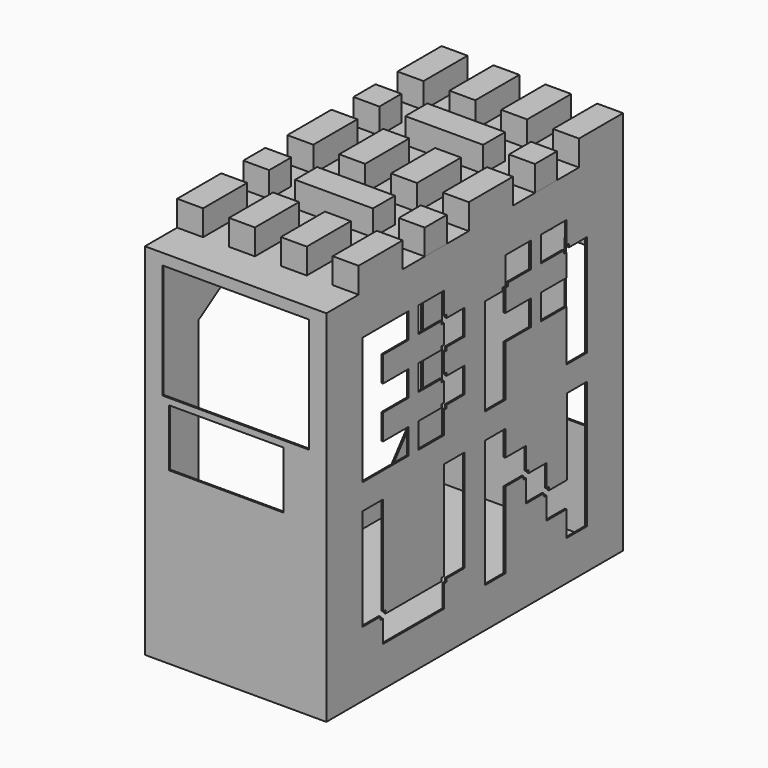
from build123d import *

# Parameters (mm, degrees)
F0_W      = 177.8
F0_H      = 355.6
F1_DEPTH  = 1.5875
F2_W      = 114.3
F2_H      = 57.15
F3_DEPTH  = 1.5885
F4_W      = 368.3
F4_H      = 355.6
F5_DEPTH  = 1.5875
F6_W      = 368.3
F6_H      = 355.6
F7_DEPTH  = 1.5875
F8_W      = 180.975
F8_H      = 368.3
F9_DEPTH  = 1.5875
F10_W     = 180.975
F10_H     = 368.3
F11_DEPTH = 1.5875
F12_W     = 180.975
F12_H     = 358.775
F13_DEPTH = 1.5875
F15_DEPTH = 25.4
F16_W     = 44.45
F16_H     = 158.75
F17_DEPTH = 25.4
F19_DEPTH = 25.4
F20_W     = 25.853571
F20_H     = 27.475961
F20_H_2   = 27.475962
F20_W_2   = 77.560714
F21_DEPTH = 25.4
F23_DEPTH = 25.4


with BuildPart() as f1:
    # F0 (on Front) → F1 (new body)
    with BuildSketch(Plane.XZ):
        Rectangle(F0_W, F0_H)
    extrude(amount=F1_DEPTH)

    # F2 (on face) → F3 (cut, through all)
    with BuildSketch(Plane.XZ.offset(1.5875)):
        with Locations((-9.525, 19.05)):
            Rectangle(F2_W, F2_H)
        Polygon((73.025, 168.275), (-73.025, 168.275), (-73.025, 53.975), (-66.675, 53.975), (73.025, 53.975), align=None)
    extrude(amount=-F3_DEPTH, mode=Mode.SUBTRACT)

    # F4 (on face) → F5 (join)
    with BuildSketch(Plane(origin=(-88.9, 0, 0), x_dir=(0, -1, 0), z_dir=(-1, 0, 0))):
        with Locations((-182.5625, 0)):
            Rectangle(F4_W, F4_H)
    extrude(amount=F5_DEPTH)

    # F6 (on face) → F7 (join)
    with BuildSketch(Plane.YZ.offset(88.9)):
        with Locations((182.5625, 0)):
            Rectangle(F6_W, F6_H)
    extrude(amount=F7_DEPTH)

    # F8 (on face) → F9 (join)
    with BuildSketch(Plane.XY.offset(177.8)):
        with Locations((0, 182.5625)):
            Rectangle(F8_W, F8_H)
    extrude(amount=F9_DEPTH)

    # F10 (on face) → F11 (join)
    with BuildSketch(Plane(origin=(0, 0, -177.8), x_dir=(1, 0, 0), z_dir=(0, 0, -1))):
        with Locations((0, -182.5625)):
            Rectangle(F10_W, F10_H)
    extrude(amount=F11_DEPTH)

    # F12 (on face) → F13 (join)
    with BuildSketch(Plane(origin=(0, 366.7125, 0), x_dir=(-1, 0, 0), z_dir=(0, 1, 0))):
        Rectangle(F12_W, F12_H)
    extrude(amount=F13_DEPTH)

    # F14 (on face) → F15 (cut)
    with BuildSketch(Plane(origin=(0, 368.3, 0), x_dir=(-1, 0, 0), z_dir=(0, 1, 0))):
        Polygon((-30.1625, 157.1625), (-77.7875, 157.1625), (-77.7875, 93.6625), (-20.6375, 93.6625), (-20.6375, 80.9625), (30.1625, 80.9625), (65.0875, 96.8375), (80.9625, 96.8375), (80.9625, 141.2875), (65.0875, 141.2875), (65.0875, 163.5125), (-30.1625, 163.5125), align=None)
    extrude(amount=-F15_DEPTH, mode=Mode.SUBTRACT)

    # F16 (on face) → F17 (cut)
    with BuildSketch(Plane(origin=(0, 368.3, 0), x_dir=(-1, 0, 0), z_dir=(0, 1, 0))):
        with Locations((-55.5625, -1.5875)):
            Rectangle(F16_W, F16_H)
    extrude(amount=-F17_DEPTH, mode=Mode.SUBTRACT)

    # F18 (on face) → F19 (cut)
    with BuildSketch(Plane.YZ.offset(90.4875)):
        Polygon((69.05625, 139.7), (43.65625, 139.7), (43.65625, 114.3), (43.65625, 88.9), (43.65625, 63.5), (43.65625, 38.1), (43.65625, 12.7), (69.05625, 12.7), (94.45625, 12.7), (100.80625, 12.7), (100.80625, 38.1), (94.45625, 38.1), (69.05625, 38.1), (69.05625, 63.5), (94.45625, 63.5), (100.80625, 63.5), (100.80625, 88.9), (94.45625, 88.9), (69.05625, 88.9), (69.05625, 114.3), (94.45625, 114.3), (100.80625, 114.3), (100.80625, 139.7), (94.45625, 139.7), align=None)
        Polygon((297.65625, -139.7), (323.05625, -139.7), (323.05625, -12.7), (298.119395, -12.7), (298.119395, -38.1), (298.119395, -63.5), (298.119395, -88.9), (275.894395, -88.9), (275.894395, -85.725), (272.719395, -85.725), (272.719395, -63.5), (250.494395, -63.5), (250.494395, -60.325), (247.319395, -60.325), (247.319395, -38.1), (221.45625, -38.1), (221.45625, -12.7), (196.05625, -12.7), (196.05625, -139.7), (221.45625, -139.7), (221.45625, -114.3), (221.45625, -88.9), (221.45625, -63.5), (244.144395, -63.5), (244.144395, -66.675), (247.319395, -66.675), (247.319395, -88.9), (269.544395, -88.9), (269.544395, -92.075), (272.719395, -92.075), (272.719395, -114.334573), (297.65625, -114.334573), align=None)
        Polygon((145.25625, 139.7), (119.85625, 139.7), (113.50625, 139.7), (113.50625, 114.3), (119.85625, 114.3), (142.08125, 114.3), (142.08125, 111.125), (145.25625, 111.125), (145.25625, 92.075), (142.08125, 92.075), (142.08125, 88.9), (119.85625, 88.9), (113.50625, 88.9), (113.50625, 63.5), (119.85625, 63.5), (142.08125, 63.5), (142.08125, 60.325), (145.25625, 60.325), (145.25625, 41.275), (142.08125, 41.275), (142.08125, 38.1), (119.85625, 38.1), (113.50625, 38.1), (113.50625, 12.7), (119.85625, 12.7), (145.25625, 12.7), (145.25625, 34.925), (148.43125, 34.925), (148.43125, 38.1), (170.65625, 38.1), (170.65625, 63.5), (148.43125, 63.5), (148.43125, 66.675), (145.25625, 66.675), (145.25625, 85.725), (148.43125, 85.725), (148.43125, 88.9), (170.65625, 88.9), (170.65625, 114.3), (148.43125, 114.3), (148.43125, 117.475), (145.25625, 117.475), align=None)
        Polygon((246.85625, 139.7), (221.45625, 139.7), (221.45625, 112.712842), (218.28125, 112.712842), (218.28125, 109.537842), (196.05625, 109.537842), (196.05625, 12.7), (221.45625, 12.7), (221.45625, 38.1), (221.45625, 63.5), (246.85625, 63.5), (253.20625, 63.5), (253.20625, 88.9), (246.85625, 88.9), (221.45625, 88.9), (221.45625, 111.125), (224.63125, 111.125), (224.63125, 114.3), (246.85625, 114.3), (253.20625, 114.3), (253.20625, 139.7), align=None)
        Polygon((297.65625, 139.7), (272.25625, 139.7), (265.90625, 139.7), (265.90625, 114.3), (272.25625, 114.3), (294.48125, 114.3), (294.48125, 111.125), (297.65625, 111.125), (297.65625, 88.9), (272.25625, 88.9), (265.90625, 88.9), (265.90625, 63.5), (272.25625, 63.5), (297.65625, 63.5), (297.65625, 38.1), (297.65625, 12.7), (323.05625, 12.7), (323.05625, 38.1), (323.05625, 63.5), (323.05625, 88.9), (323.05625, 114.3), (300.83125, 114.3), (300.83125, 117.475), (297.65625, 117.475), align=None)
        Polygon((69.05625, -12.7), (43.65625, -12.7), (43.65625, -38.1), (43.65625, -63.5), (43.65625, -88.9), (43.65625, -114.3), (65.88125, -114.3), (65.88125, -117.475), (69.05625, -117.475), (69.05625, -139.7), (145.25625, -139.7), (145.25625, -117.475), (148.43125, -117.475), (148.43125, -114.3), (170.65625, -114.3), (170.65625, -12.7), (145.25625, -12.7), (145.25625, -111.125), (142.08125, -111.125), (142.08125, -114.3), (72.23125, -114.3), (72.23125, -111.125), (69.05625, -111.125), align=None)
    extrude(amount=-F19_DEPTH, mode=Mode.SUBTRACT)

    # F20 (on face) → F21 (join)
    with BuildSketch(Plane.XY.offset(179.3875)):
        Polygon((-64.633929, 368.3), (-90.4875, 368.3), (-90.4875, 340.824038), (-90.4875, 313.348077), (-64.633929, 313.348077), (-64.633929, 340.824038), align=None)
        Polygon((-12.926786, 368.3), (-38.780357, 368.3), (-38.780357, 340.824038), (-38.780357, 313.348077), (-12.926786, 313.348077), (-12.926786, 340.824038), align=None)
        Polygon((38.780357, 368.3), (12.926786, 368.3), (12.926786, 340.824038), (12.926786, 313.348077), (38.780357, 313.348077), (38.780357, 340.824038), align=None)
        Polygon((90.4875, 368.3), (64.633929, 368.3), (64.633929, 340.824038), (64.633929, 313.348077), (90.4875, 313.348077), (90.4875, 340.824038), align=None)
        with Locations((77.560714, 272.134134)):
            Rectangle(F20_W, F20_H)
        Polygon((90.4875, 66.064423), (90.4875, 93.540385), (64.633929, 93.540385), (64.633929, 66.064423), (64.633929, 38.588462), (90.4875, 38.588462), align=None)
        with Locations((77.560714, 134.754327)):
            Rectangle(F20_W, F20_H_2)
        Polygon((90.4875, 203.444231), (90.4875, 230.920192), (64.633929, 230.920192), (64.633929, 203.444231), (64.633929, 175.968269), (90.4875, 175.968269), align=None)
        with Locations((0, 272.134134)):
            Rectangle(F20_W_2, F20_H)
        Polygon((38.780357, 203.444231), (38.780357, 230.920192), (12.926786, 230.920192), (12.926786, 203.444231), (12.926786, 175.968269), (38.780357, 175.968269), align=None)
        with Locations((0, 134.754327)):
            Rectangle(F20_W_2, F20_H_2)
        Polygon((38.780357, 66.064423), (38.780357, 93.540385), (12.926786, 93.540385), (12.926786, 66.064423), (12.926786, 38.588462), (38.780357, 38.588462), align=None)
        Polygon((-12.926786, 203.444231), (-12.926786, 230.920192), (-38.780357, 230.920192), (-38.780357, 203.444231), (-38.780357, 175.968269), (-12.926786, 175.968269), align=None)
        Polygon((-12.926786, 66.064423), (-12.926786, 93.540385), (-38.780357, 93.540385), (-38.780357, 66.064423), (-38.780357, 38.588462), (-12.926786, 38.588462), align=None)
        with Locations((-77.560714, 272.134134)):
            Rectangle(F20_W, F20_H)
        Polygon((-64.633929, 203.444231), (-64.633929, 230.920192), (-90.4875, 230.920192), (-90.4875, 203.444231), (-90.4875, 175.968269), (-64.633929, 175.968269), align=None)
        with Locations((-77.560714, 134.754327)):
            Rectangle(F20_W, F20_H_2)
        Polygon((-64.633929, 66.064423), (-64.633929, 93.540385), (-90.4875, 93.540385), (-90.4875, 66.064423), (-90.4875, 38.588462), (-64.633929, 38.588462), align=None)
    extrude(amount=F21_DEPTH)

    # F22 (on face) → F23 (cut)
    with BuildSketch(Plane(origin=(-90.4875, 0, 0), x_dir=(0, -1, 0), z_dir=(-1, 0, 0))):
        Polygon((-292.1, 153.9875), (-342.9, 90.4875), (-342.9, -90.4875), (-292.1, -153.9875), (-165.1, -153.9875), (-63.5, -88.9), (-63.5, 88.9), (-165.1, 153.9875), align=None)
    extrude(amount=-F23_DEPTH, mode=Mode.SUBTRACT)


solid = f1.part
